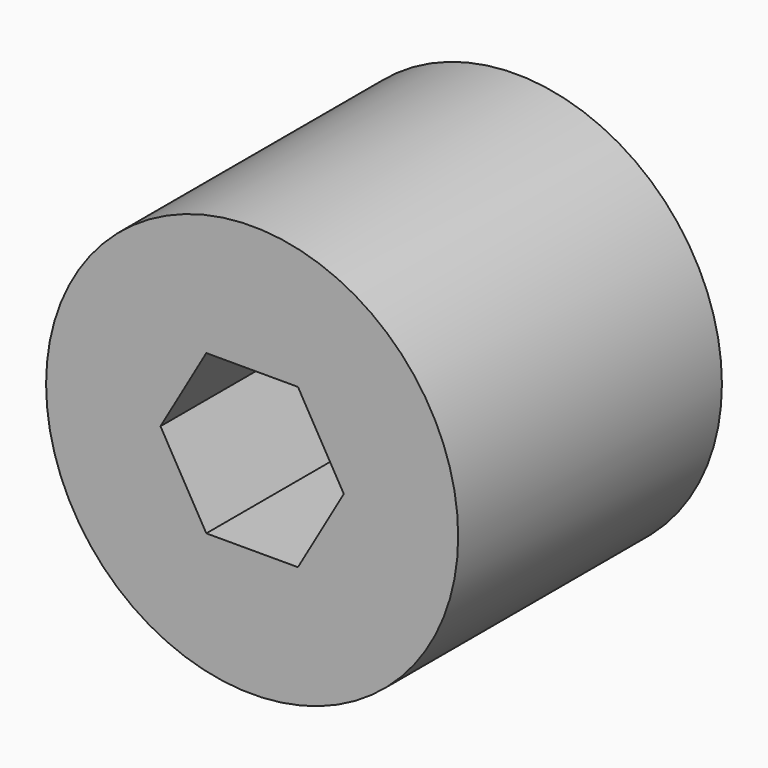
from build123d import *

# Parameters (mm, degrees)
F0_R     = 25
F1_DEPTH = 40
F3_DEPTH = 25


with BuildPart() as f1:
    # F0 (on Front) → F1 (new body)
    with BuildSketch(Plane.XZ):
        Circle(F0_R)
    extrude(amount=-F1_DEPTH)

    # F2 (on Front) → F3 (cut)
    with BuildSketch(Plane.XZ):
        Polygon((5.559986, 9.630178), (-5.559986, 9.630178), (-11.119972, 0), (-5.559986, -9.630178), (5.559986, -9.630178), (11.119972, 0), align=None)
    extrude(amount=-F3_DEPTH, mode=Mode.SUBTRACT)


solid = f1.part
